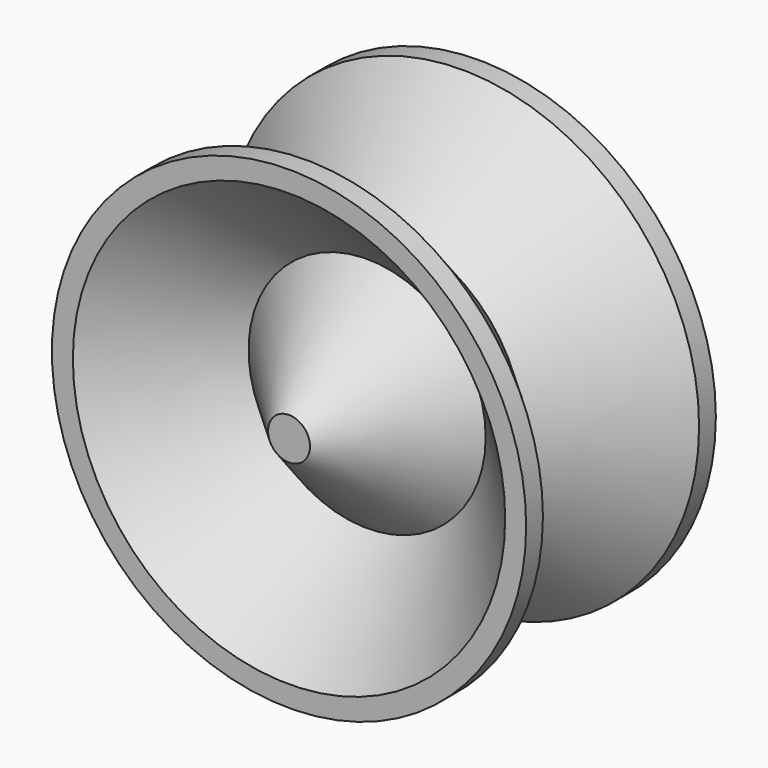
from build123d import *


with BuildPart() as f1:
    # F0 (on Top) → F1 (revolve)
    with BuildSketch(Plane.XY):
        Polygon((2.828427, 0), (0, 0), (0, -2.828427), (13.171573, -16), (0, -29.171573), (0, -32), (2.828427, -32), (16, -18.828427), (29.171573, -32), (32, -32), (32, -29.171573), (18.828427, -16), (32, -2.828427), (32, 0), (29.171573, 0), (16, -13.171573), align=None)
    revolve(axis=Axis((0, -1.414214, 0), (0, 1, 0)))


solid = f1.part
